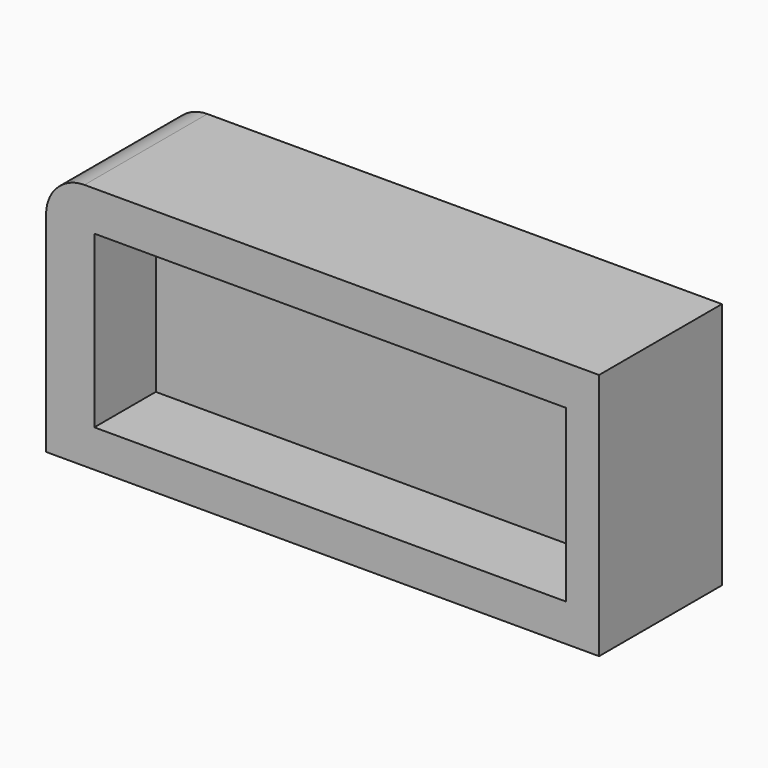
from build123d import *

# Parameters (mm, degrees)
F1_DEPTH = 25.4
F2_W     = 78.052774
F2_H     = 28.209937
F3_DEPTH = 12.7


with BuildPart() as f1:
    # F0 (on Front) → F1 (new body)
    with BuildSketch(Plane.XZ):
        with BuildLine():
            Line((51.145062, 20.566268), (-33.970713, 20.566268))
            ThreePointArc((-33.970713, 20.566268), (-38.460841, 18.706396), (-40.320713, 14.216268))
            Line((-40.320713, 14.216268), (-40.320713, -20.385863))
            Line((-40.320713, -20.385863), (51.145062, -20.385863))
            Line((51.145062, -20.385863), (51.145062, 20.566268))
        make_face()
    extrude(amount=F1_DEPTH)

    # F2 (on face) → F3 (cut)
    with BuildSketch(Plane.XZ.offset(25.4)):
        with Locations((6.687261, -0.101787)):
            Rectangle(F2_W, F2_H)
    extrude(amount=-F3_DEPTH, mode=Mode.SUBTRACT)


solid = f1.part
